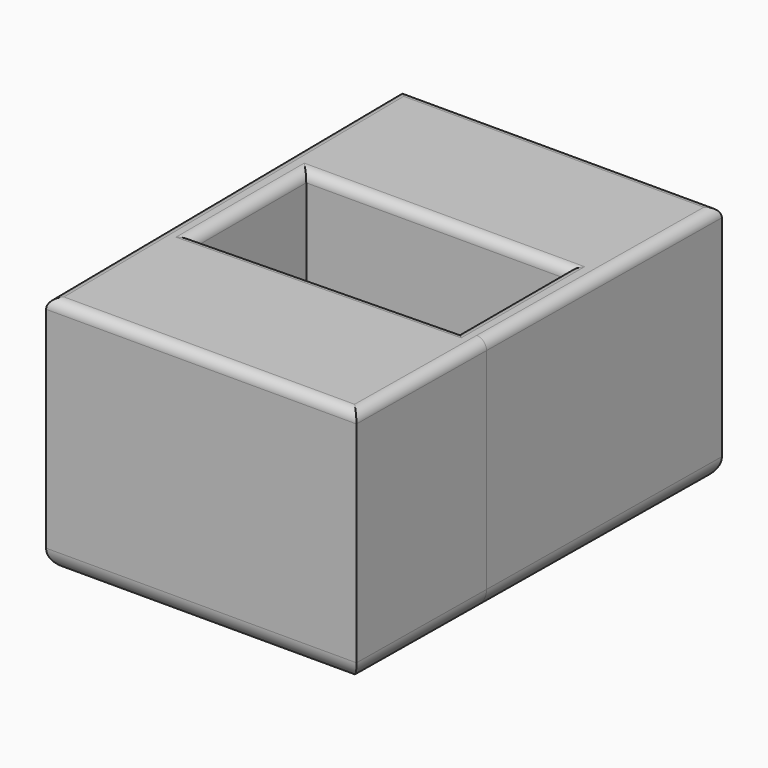
from build123d import *

# Parameters (mm, degrees)
F1_DEPTH = 20
F0_R     = 2
F0_R_2   = 4.5
F2_DEPTH = 4
F3_R     = 2
F4_R     = 1


with BuildPart() as f1:
    # F0 (on Top) → F1 (new body)
    with BuildSketch(Plane.XY):
        Polygon((-0.5, 45), (0, 0), (31, 0), (31.1779875703, 16.0188813289), (31.5, 45), (15.5, 45), align=None)
        Polygon((28.5000000559, 15.9295856795), (2.4999999441, 15.3551234695), (2.4999999441, 29.3559876404), (28.5000000559, 29.3559876404), align=None, mode=Mode.SUBTRACT)
    extrude(amount=F1_DEPTH)

    # F0 (on Top) → F2 (join)
    with BuildSketch(Plane.XY):
        Polygon((-0.5, 45), (0, 0), (31, 0), (31.1779875703, 16.0188813289), (31.5, 45), (15.5, 45), align=None)
        Polygon((28.5000000559, 15.9295856795), (2.4999999441, 15.3551234695), (2.4999999441, 29.3559876404), (28.5000000559, 29.3559876404), align=None, mode=Mode.SUBTRACT)
        Polygon((2.4999999441, 29.3559876404), (2.4999999441, 15.3551234695), (28.5000000559, 15.9295856795), (28.5000000559, 29.3559876404), align=None)
        with Locations((7.5, 22.4111111111)):
            Circle(F0_R, mode=Mode.SUBTRACT)
        with Locations((23.5, 22.4111111111)):
            Circle(F0_R, mode=Mode.SUBTRACT)
        with Locations((15.5, 22.5)):
            Circle(F0_R_2, mode=Mode.SUBTRACT)
    extrude(amount=-F2_DEPTH)

    # F3
    f3_edges = [f1.edges().sort_by_distance(p)[0] for p in [
        (31.25, 22.5, -4),
        (15.5, 0, -4),
        (-0.25, 22.5, -4),
        (15.5, 45, -4),
    ]]
    fillet(f3_edges, radius=F3_R)

    # F4
    f4_edges = [f1.edges().sort_by_distance(p)[0] for p in [
        (15.5, 0, 20),
        (31.25, 22.5, 20),
        (-0.25, 22.5, 20),
        (15.5, 45, 20),
        (15.5, 29.355988, 20),
        (28.5, 22.642787, 20),
        (15.5, 15.642355, 20),
        (2.5, 22.355556, 20),
        (28.5, 22.642787, 0),
        (15.5, 15.642355, 0),
        (15.5, 29.355988, 0),
        (2.5, 22.355556, 0),
    ]]
    fillet(f4_edges, radius=F4_R)


solid = f1.part
